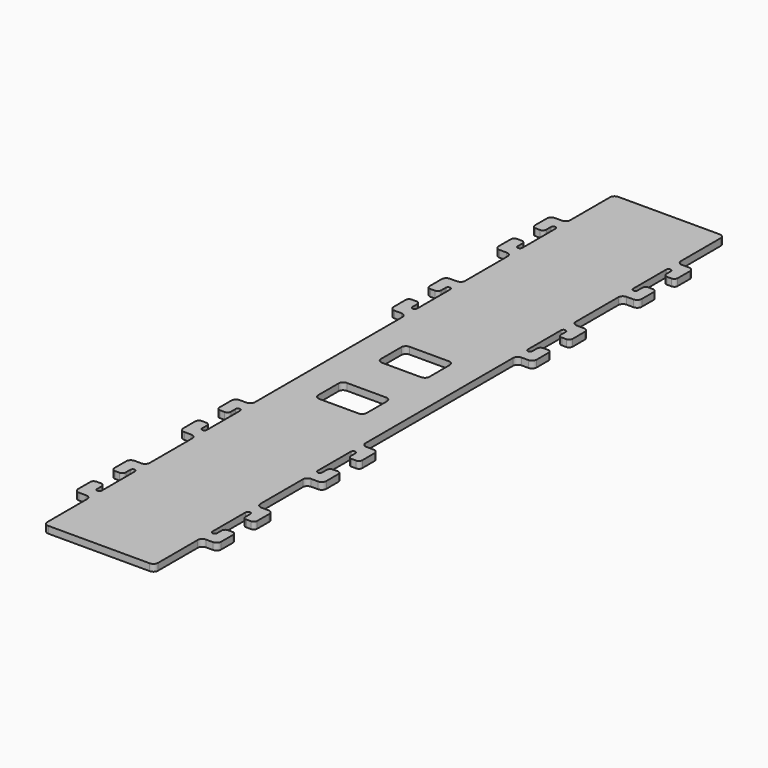
from build123d import *

# Parameters (mm, degrees)
F1_DEPTH = 3


with BuildPart() as f1:
    # F0 (on Top) → F1 (new body)
    with BuildSketch(Plane.XY):
        with BuildLine():
            ThreePointArc((0, 2), (0.585786, 0.585786), (2, 0))
            Line((2, 0), (24, 0))
            Line((24, 0), (46, 0))
            ThreePointArc((46, 0), (47.414214, 0.585786), (48, 2))
            Line((48, 2), (48, 23.5))
            ThreePointArc((48, 23.5), (48.585786, 24.914214), (50, 25.5))
            Line((50, 25.5), (53, 25.5))
            ThreePointArc((53, 25.5), (54.414214, 26.085786), (55, 27.5))
            Line((55, 27.5), (55, 34))
            ThreePointArc((55, 34), (54.56066, 35.06066), (53.5, 35.5))
            Line((53.5, 35.5), (51.5, 35.5))
            ThreePointArc((51.5, 35.5), (50.43934, 35.06066), (50, 34))
            Line((50, 34), (50, 31.5))
            ThreePointArc((50, 31.5), (49, 30.5), (48, 31.5))
            Line((48, 31.5), (48, 49.5))
            ThreePointArc((48, 49.5), (49, 50.5), (50, 49.5))
            Line((50, 49.5), (50, 47))
            ThreePointArc((50, 47), (50.43934, 45.93934), (51.5, 45.5))
            Line((51.5, 45.5), (53.5, 45.5))
            ThreePointArc((53.5, 45.5), (54.56066, 45.93934), (55, 47))
            Line((55, 47), (55, 53.5))
            ThreePointArc((55, 53.5), (54.414214, 54.914214), (53, 55.5))
            Line((53, 55.5), (50, 55.5))
            ThreePointArc((50, 55.5), (48.585786, 56.085786), (48, 57.5))
            Line((48, 57.5), (48, 80.5))
            ThreePointArc((48, 80.5), (48.585786, 81.914214), (50, 82.5))
            Line((50, 82.5), (53, 82.5))
            ThreePointArc((53, 82.5), (54.414214, 83.085786), (55, 84.5))
            Line((55, 84.5), (55, 91))
            ThreePointArc((55, 91), (54.56066, 92.06066), (53.5, 92.5))
            Line((53.5, 92.5), (51.5, 92.5))
            ThreePointArc((51.5, 92.5), (50.43934, 92.06066), (50, 91))
            Line((50, 91), (50, 88.5))
            ThreePointArc((50, 88.5), (49, 87.5), (48, 88.5))
            Line((48, 88.5), (48, 106.5))
            ThreePointArc((48, 106.5), (49, 107.5), (50, 106.5))
            Line((50, 106.5), (50, 104))
            ThreePointArc((50, 104), (50.43934, 102.93934), (51.5, 102.5))
            Line((51.5, 102.5), (53.5, 102.5))
            ThreePointArc((53.5, 102.5), (54.56066, 102.93934), (55, 104))
            Line((55, 104), (55, 110.5))
            ThreePointArc((55, 110.5), (54.414214, 111.914214), (53, 112.5))
            Line((53, 112.5), (50, 112.5))
            ThreePointArc((50, 112.5), (48.585786, 113.085786), (48, 114.5))
            Line((48, 114.5), (48, 154.5))
            Line((48, 154.5), (48, 194.5))
            ThreePointArc((48, 194.5), (48.585786, 195.914214), (50, 196.5))
            Line((50, 196.5), (53, 196.5))
            ThreePointArc((53, 196.5), (54.414214, 197.085786), (55, 198.5))
            Line((55, 198.5), (55, 205))
            ThreePointArc((55, 205), (54.56066, 206.06066), (53.5, 206.5))
            Line((53.5, 206.5), (51.5, 206.5))
            ThreePointArc((51.5, 206.5), (50.43934, 206.06066), (50, 205))
            Line((50, 205), (50, 202.5))
            ThreePointArc((50, 202.5), (49, 201.5), (48, 202.5))
            Line((48, 202.5), (48, 220.5))
            ThreePointArc((48, 220.5), (49, 221.5), (50, 220.5))
            Line((50, 220.5), (50, 218))
            ThreePointArc((50, 218), (50.43934, 216.93934), (51.5, 216.5))
            Line((51.5, 216.5), (53.5, 216.5))
            ThreePointArc((53.5, 216.5), (54.56066, 216.93934), (55, 218))
            Line((55, 218), (55, 224.5))
            ThreePointArc((55, 224.5), (54.414214, 225.914214), (53, 226.5))
            Line((53, 226.5), (50, 226.5))
            ThreePointArc((50, 226.5), (48.585786, 227.085786), (48, 228.5))
            Line((48, 228.5), (48, 251.5))
            ThreePointArc((48, 251.5), (48.585786, 252.914214), (50, 253.5))
            Line((50, 253.5), (53, 253.5))
            ThreePointArc((53, 253.5), (54.414214, 254.085786), (55, 255.5))
            Line((55, 255.5), (55, 262))
            ThreePointArc((55, 262), (54.56066, 263.06066), (53.5, 263.5))
            Line((53.5, 263.5), (51.5, 263.5))
            ThreePointArc((51.5, 263.5), (50.43934, 263.06066), (50, 262))
            Line((50, 262), (50, 259.5))
            ThreePointArc((50, 259.5), (49, 258.5), (48, 259.5))
            Line((48, 259.5), (48, 277.5))
            ThreePointArc((48, 277.5), (49, 278.5), (50, 277.5))
            Line((50, 277.5), (50, 275))
            ThreePointArc((50, 275), (50.43934, 273.93934), (51.5, 273.5))
            Line((51.5, 273.5), (53.5, 273.5))
            ThreePointArc((53.5, 273.5), (54.56066, 273.93934), (55, 275))
            Line((55, 275), (55, 281.5))
            ThreePointArc((55, 281.5), (54.414214, 282.914214), (53, 283.5))
            Line((53, 283.5), (50, 283.5))
            ThreePointArc((50, 283.5), (48.585786, 284.085786), (48, 285.5))
            Line((48, 285.5), (48, 307))
            ThreePointArc((48, 307), (47.414214, 308.414214), (46, 309))
            Line((46, 309), (24, 309))
            Line((24, 309), (2, 309))
            ThreePointArc((2, 309), (0.585786, 308.414214), (0, 307))
            Line((0, 307), (0, 285.5))
            ThreePointArc((0, 285.5), (-0.585786, 284.085786), (-2, 283.5))
            Line((-2, 283.5), (-5, 283.5))
            ThreePointArc((-5, 283.5), (-6.414214, 282.914214), (-7, 281.5))
            Line((-7, 281.5), (-7, 275))
            ThreePointArc((-7, 275), (-6.56066, 273.93934), (-5.5, 273.5))
            Line((-5.5, 273.5), (-3.5, 273.5))
            ThreePointArc((-3.5, 273.5), (-2.43934, 273.93934), (-2, 275))
            Line((-2, 275), (-2, 277.5))
            ThreePointArc((-2, 277.5), (-1, 278.5), (0, 277.5))
            Line((0, 277.5), (0, 259.5))
            ThreePointArc((0, 259.5), (-1, 258.5), (-2, 259.5))
            Line((-2, 259.5), (-2, 262))
            ThreePointArc((-2, 262), (-2.43934, 263.06066), (-3.5, 263.5))
            Line((-3.5, 263.5), (-5.5, 263.5))
            ThreePointArc((-5.5, 263.5), (-6.56066, 263.06066), (-7, 262))
            Line((-7, 262), (-7, 255.5))
            ThreePointArc((-7, 255.5), (-6.414214, 254.085786), (-5, 253.5))
            Line((-5, 253.5), (-2, 253.5))
            ThreePointArc((-2, 253.5), (-0.585786, 252.914214), (0, 251.5))
            Line((0, 251.5), (0, 228.5))
            ThreePointArc((0, 228.5), (-0.585786, 227.085786), (-2, 226.5))
            Line((-2, 226.5), (-5, 226.5))
            ThreePointArc((-5, 226.5), (-6.414214, 225.914214), (-7, 224.5))
            Line((-7, 224.5), (-7, 218))
            ThreePointArc((-7, 218), (-6.56066, 216.93934), (-5.5, 216.5))
            Line((-5.5, 216.5), (-3.5, 216.5))
            ThreePointArc((-3.5, 216.5), (-2.43934, 216.93934), (-2, 218))
            Line((-2, 218), (-2, 220.5))
            ThreePointArc((-2, 220.5), (-1, 221.5), (0, 220.5))
            Line((0, 220.5), (0, 202.5))
            ThreePointArc((0, 202.5), (-1, 201.5), (-2, 202.5))
            Line((-2, 202.5), (-2, 205))
            ThreePointArc((-2, 205), (-2.43934, 206.06066), (-3.5, 206.5))
            Line((-3.5, 206.5), (-5.5, 206.5))
            ThreePointArc((-5.5, 206.5), (-6.56066, 206.06066), (-7, 205))
            Line((-7, 205), (-7, 198.5))
            ThreePointArc((-7, 198.5), (-6.414214, 197.085786), (-5, 196.5))
            Line((-5, 196.5), (-2, 196.5))
            ThreePointArc((-2, 196.5), (-0.585786, 195.914214), (0, 194.5))
            Line((0, 194.5), (0, 154.5))
            Line((0, 154.5), (0, 114.5))
            ThreePointArc((0, 114.5), (-0.585786, 113.085786), (-2, 112.5))
            Line((-2, 112.5), (-5, 112.5))
            ThreePointArc((-5, 112.5), (-6.414214, 111.914214), (-7, 110.5))
            Line((-7, 110.5), (-7, 104))
            ThreePointArc((-7, 104), (-6.56066, 102.93934), (-5.5, 102.5))
            Line((-5.5, 102.5), (-3.5, 102.5))
            ThreePointArc((-3.5, 102.5), (-2.43934, 102.93934), (-2, 104))
            Line((-2, 104), (-2, 106.5))
            ThreePointArc((-2, 106.5), (-1, 107.5), (0, 106.5))
            Line((0, 106.5), (0, 88.5))
            ThreePointArc((0, 88.5), (-1, 87.5), (-2, 88.5))
            Line((-2, 88.5), (-2, 91))
            ThreePointArc((-2, 91), (-2.43934, 92.06066), (-3.5, 92.5))
            Line((-3.5, 92.5), (-5.5, 92.5))
            ThreePointArc((-5.5, 92.5), (-6.56066, 92.06066), (-7, 91))
            Line((-7, 91), (-7, 84.5))
            ThreePointArc((-7, 84.5), (-6.414214, 83.085786), (-5, 82.5))
            Line((-5, 82.5), (-2, 82.5))
            ThreePointArc((-2, 82.5), (-0.585786, 81.914214), (0, 80.5))
            Line((0, 80.5), (0, 57.5))
            ThreePointArc((0, 57.5), (-0.585786, 56.085786), (-2, 55.5))
            Line((-2, 55.5), (-5, 55.5))
            ThreePointArc((-5, 55.5), (-6.414214, 54.914214), (-7, 53.5))
            Line((-7, 53.5), (-7, 47))
            ThreePointArc((-7, 47), (-6.56066, 45.93934), (-5.5, 45.5))
            Line((-5.5, 45.5), (-3.5, 45.5))
            ThreePointArc((-3.5, 45.5), (-2.43934, 45.93934), (-2, 47))
            Line((-2, 47), (-2, 49.5))
            ThreePointArc((-2, 49.5), (-1, 50.5), (0, 49.5))
            Line((0, 49.5), (0, 31.5))
            ThreePointArc((0, 31.5), (-1, 30.5), (-2, 31.5))
            Line((-2, 31.5), (-2, 34))
            ThreePointArc((-2, 34), (-2.43934, 35.06066), (-3.5, 35.5))
            Line((-3.5, 35.5), (-5.5, 35.5))
            ThreePointArc((-5.5, 35.5), (-6.56066, 35.06066), (-7, 34))
            Line((-7, 34), (-7, 27.5))
            ThreePointArc((-7, 27.5), (-6.414214, 26.085786), (-5, 25.5))
            Line((-5, 25.5), (-2, 25.5))
            ThreePointArc((-2, 25.5), (-0.585786, 24.914214), (0, 23.5))
            Line((0, 23.5), (0, 2))
        make_face()
        with BuildLine():
            Line((24, 130), (15.5, 130))
            ThreePointArc((15.5, 130), (14.085786, 130.585786), (13.5, 132))
            Line((13.5, 132), (13.5, 143))
            ThreePointArc((13.5, 143), (14.085786, 144.414214), (15.5, 145))
            Line((15.5, 145), (24, 145))
            Line((24, 145), (32.5, 145))
            ThreePointArc((32.5, 145), (33.914214, 144.414214), (34.5, 143))
            Line((34.5, 143), (34.5, 132))
            ThreePointArc((34.5, 132), (33.914214, 130.585786), (32.5, 130))
            Line((32.5, 130), (24, 130))
        make_face(mode=Mode.SUBTRACT)
        with BuildLine():
            Line((24, 164), (15.5, 164))
            ThreePointArc((15.5, 164), (14.085786, 164.585786), (13.5, 166))
            Line((13.5, 166), (13.5, 177))
            ThreePointArc((13.5, 177), (14.085786, 178.414214), (15.5, 179))
            Line((15.5, 179), (24, 179))
            Line((24, 179), (32.5, 179))
            ThreePointArc((32.5, 179), (33.914214, 178.414214), (34.5, 177))
            Line((34.5, 177), (34.5, 166))
            ThreePointArc((34.5, 166), (33.914214, 164.585786), (32.5, 164))
            Line((32.5, 164), (24, 164))
        make_face(mode=Mode.SUBTRACT)
    extrude(amount=F1_DEPTH)


solid = f1.part
